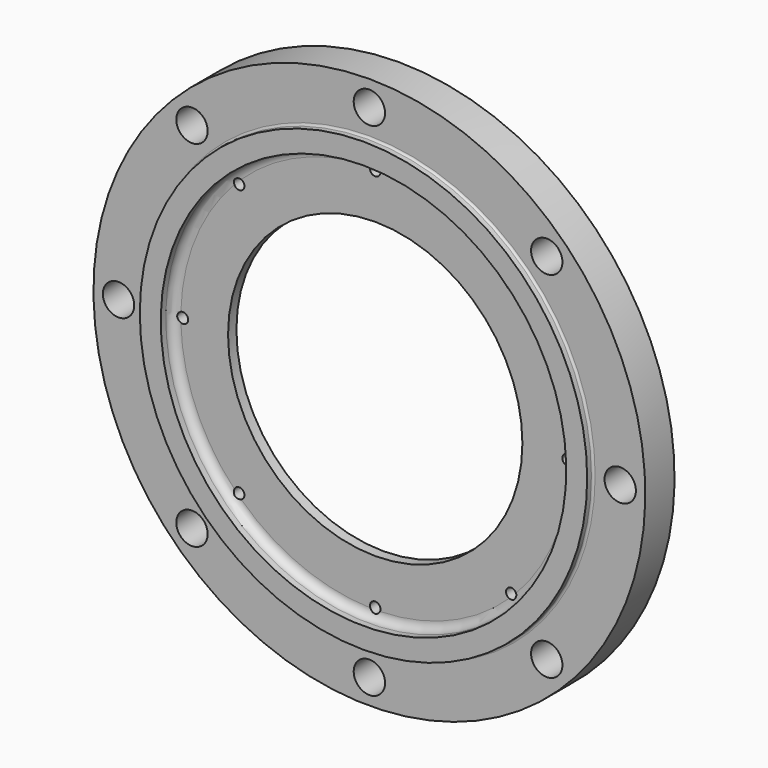
from build123d import *

# Parameters (mm, degrees)
F2_R     = 1.5875
F3_R     = 11.90625
F4_DEPTH = 27.78125
F5_R     = 3.96875
F6_DEPTH = 22.6893925511


with BuildPart() as f1:
    # F0 (on Right) → F1 (revolve)
    with BuildSketch(Plane.YZ):
        with BuildLine():
            Line((0, 128.5875), (0, 209.55))
            Line((0, 209.55), (-27.78125, 209.55))
            Line((-27.78125, 209.55), (-27.78125, 169.8879))
            Line((-27.78125, 169.8879), (-33.34385, 169.8879))
            Line((-33.34385, 169.8879), (-33.34385, 153.9875))
            Line((-33.34385, 153.9875), (-28.575, 153.9875))
            ThreePointArc((-28.575, 153.9875), (-24.0848719395, 152.1276280605), (-22.225, 147.6375))
            Line((-22.225, 147.6375), (-22.225, 111.76))
            Line((-22.225, 111.76), (-14.2875, 111.76))
            Line((-14.2875, 111.76), (-14.2875, 128.5875))
            Line((-14.2875, 128.5875), (0, 128.5875))
        make_face()
    revolve(axis=Axis((0, 90.567432344, 0), (0, 1, 0)))

    # F2
    f2_edges = [f1.edges().sort_by_distance(p)[0] for p in [
        (0, -27.78125, -169.8879),
    ]]
    fillet(f2_edges, radius=F2_R)

    # F3 (on face) → F4 (cut, through all)
    with BuildSketch(Plane(origin=(0, 0, 0), x_dir=(-1, 0, 0), z_dir=(0, 1, 0))):
        with Locations((0, 190.5)):
            Circle(F3_R)
        with Locations((-134.703841816, 134.703841816)):
            Circle(F3_R)
        with Locations((-190.5, 0)):
            Circle(F3_R)
        with Locations((-134.703841816, -134.703841816)):
            Circle(F3_R)
        with Locations((0, -190.5)):
            Circle(F3_R)
        with Locations((134.703841816, -134.703841816)):
            Circle(F3_R)
        with Locations((190.5, 0)):
            Circle(F3_R)
        with Locations((134.703841816, 134.703841816)):
            Circle(F3_R)
    extrude(amount=-F4_DEPTH, mode=Mode.SUBTRACT)

    # F5 (on face) → F6 (cut, through all)
    with BuildSketch(Plane(origin=(0, 0, 0), x_dir=(-1, 0, 0), z_dir=(0, 1, 0))):
        with Locations((0, 146.05)):
            Circle(F5_R)
        with Locations((-103.2729453923, 103.2729453923)):
            Circle(F5_R)
        with Locations((-146.05, 0)):
            Circle(F5_R)
        with Locations((-103.2729453923, -103.2729453923)):
            Circle(F5_R)
        with Locations((0, -146.05)):
            Circle(F5_R)
        with Locations((103.2729453923, -103.2729453923)):
            Circle(F5_R)
        with Locations((146.05, 0)):
            Circle(F5_R)
        with Locations((103.2729453923, 103.2729453923)):
            Circle(F5_R)
    extrude(amount=-F6_DEPTH, mode=Mode.SUBTRACT)


solid = f1.part
